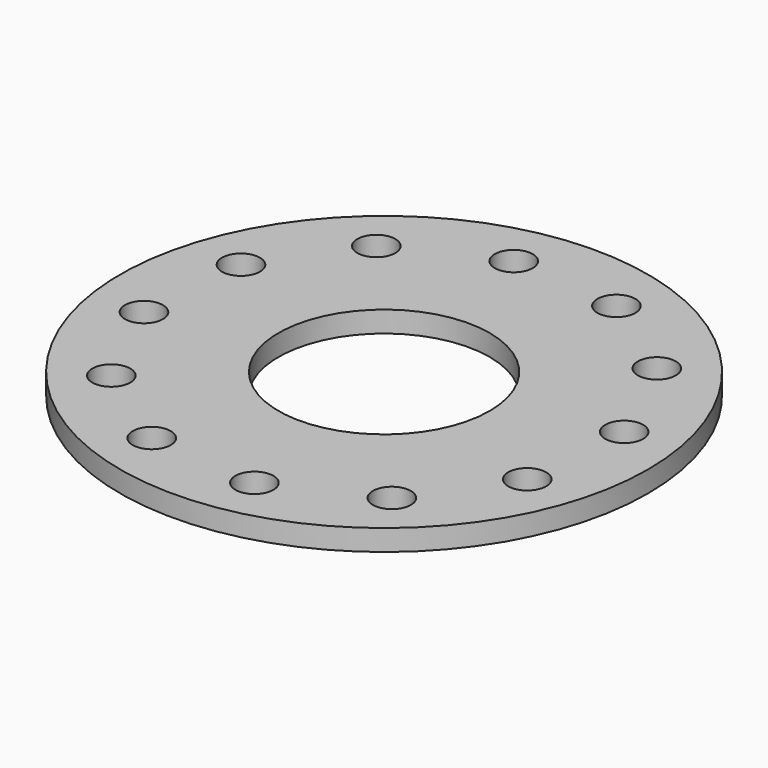
from build123d import *

# Parameters (mm, degrees)
F0_R     = 31.75
F0_R_2   = 2.286
F0_R_3   = 12.7
F1_DEPTH = 2.54


with BuildPart() as f1:
    # F0 (on Top) → F1 (new body)
    with BuildSketch(Plane.XY):
        Circle(F0_R)
        with Locations((-19.55208, -16.574525)):
            Circle(F0_R_2, mode=Mode.SUBTRACT)
        with Locations((-8.645335, -24.13)):
            Circle(F0_R_2, mode=Mode.SUBTRACT)
        with Locations((-25.219861, -4.57792)):
            Circle(F0_R_2, mode=Mode.SUBTRACT)
        with Locations((4.57792, -25.219861)):
            Circle(F0_R_2, mode=Mode.SUBTRACT)
        with Locations((16.574525, -19.55208)):
            Circle(F0_R_2, mode=Mode.SUBTRACT)
        with Locations((24.13, -8.645335)):
            Circle(F0_R_2, mode=Mode.SUBTRACT)
        with Locations((-24.13, 8.645335)):
            Circle(F0_R_2, mode=Mode.SUBTRACT)
        with Locations((-16.574525, 19.55208)):
            Circle(F0_R_2, mode=Mode.SUBTRACT)
        with Locations((-4.57792, 25.219861)):
            Circle(F0_R_2, mode=Mode.SUBTRACT)
        Circle(F0_R_3, mode=Mode.SUBTRACT)
        with Locations((25.219861, 4.57792)):
            Circle(F0_R_2, mode=Mode.SUBTRACT)
        with Locations((8.645335, 24.13)):
            Circle(F0_R_2, mode=Mode.SUBTRACT)
        with Locations((19.55208, 16.574525)):
            Circle(F0_R_2, mode=Mode.SUBTRACT)
    extrude(amount=F1_DEPTH)


solid = f1.part
